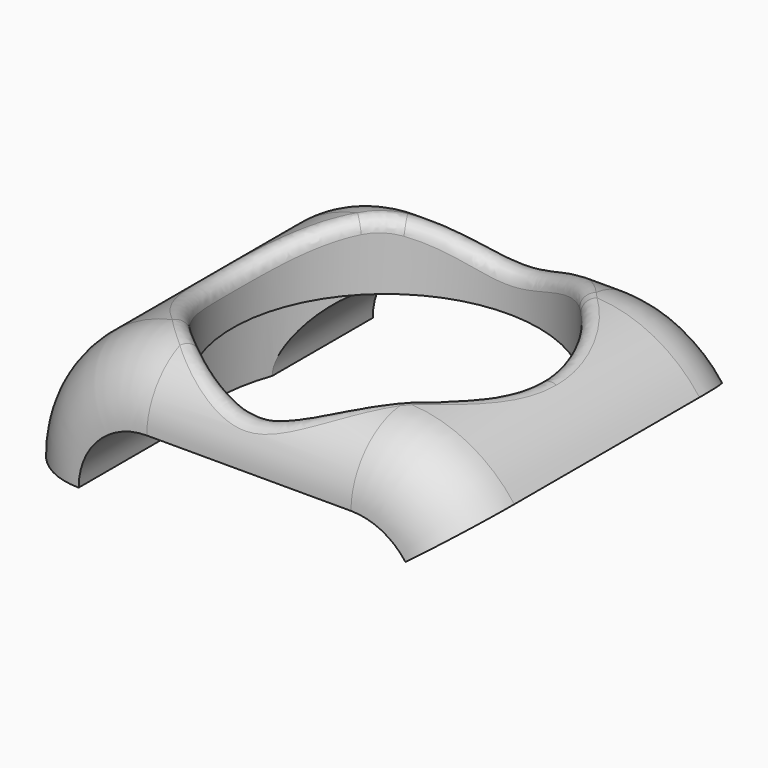
from build123d import *

# Parameters (mm, degrees)
PAD005_DEPTH    = 13.5
FILLET032_R     = 10
FILLET033_R     = 5
SKETCH032_R     = 11.25
POCKET012_DEPTH = 35.001
POCKET013_DEPTH = 24
SKETCH034_W     = 1.7
SKETCH034_H     = 3
POCKET014_DEPTH = 16
SKETCH035_W     = 9.1
SKETCH035_H     = 3.39
POCKET015_DEPTH = 1
FILLET034_R     = 1
FILLET035_R     = 1
FILLET036_R     = 1
FILLET037_R     = 0.5
FILLET038_R     = 0.5
FILLET039_R     = 0.25
FILLET040_R     = 0.5
FILLET041_R     = 0.13
FILLET042_R     = 10
FILLET043_R     = 1
FILLET044_R     = 0.25
FILLET045_R     = 0.5
FILLET046_R     = 0.5
FILLET047_R     = 0.9
POCKET016_DEPTH = 0.5
POCKET018_DEPTH = 27.001
POCKET019_DEPTH = 27.001
SKETCH041_R     = 12.5
POCKET021_DEPTH = 5


with BuildPart() as part:
    # Sketch031 → Pad005 (new body, symmetric)
    with BuildSketch(Plane.XZ):
        Polygon((0, 75), (30, 75), (45, 55), (37.727273, 15), (0, 15), align=None)
    extrude(amount=PAD005_DEPTH, both=True)

    # Fillet032
    fillet032_edges = [part.edges().sort_by_distance(p)[0] for p in [
        (30, 0, 75),
        (45, 0, 55),
        (37.727273, 0, 15),
        (0, 0, 75),
        (0, 0, 15),
    ]]
    fillet(fillet032_edges, radius=FILLET032_R)

    # Fillet033
    fillet033_edges = [part.edges().sort_by_distance(p)[0] for p in [
        (37.69012, -13.5, 64.746507),
        (37.69012, 13.5, 64.746507),
    ]]
    fillet(fillet033_edges, radius=FILLET033_R)

    # Sketch032 (on Face30 of Fillet033) → Pocket012 (cut, through all)
    with BuildSketch(Plane(origin=(0, 0, 40), x_dir=(1, 0, 0), z_dir=(0, 0, -1))):
        with Locations((16.75, 0)):
            Circle(SKETCH032_R)
    extrude(amount=-POCKET012_DEPTH, mode=Mode.SUBTRACT)

    # Sketch033 (on Face11 of Pocket012) → Pocket013 (cut)
    with BuildSketch(Plane(origin=(0, 0, 40), x_dir=(-1, 0, 0), z_dir=(0, 0, 1))):
        Polygon((-7.65, 5.5), (-7.65, 1.3), (-11.75, 1.3), (-11.75, -2.5), (-21.75, -2.5), (-21.75, 1.3), (-25.85, 1.3), (-25.85, 5.5), (-20.85, 3.5), (-12.65, 3.5), align=None)
    extrude(amount=-POCKET013_DEPTH, mode=Mode.SUBTRACT)

    # Sketch034 (on Face11 of Pocket013) → Pocket014 (cut)
    with BuildSketch(Plane(origin=(0, 0, 40), x_dir=(-1, 0, 0), z_dir=(0, 0, 1))):
        with Locations((-22.6, -0.2)):
            Rectangle(SKETCH034_W, SKETCH034_H)
        with Locations((-10.9, -0.2)):
            Rectangle(SKETCH034_W, SKETCH034_H)
    extrude(amount=-POCKET014_DEPTH, mode=Mode.SUBTRACT)

    # Sketch035 (on Face43 of Pocket014) → Pocket015 (cut)
    with BuildSketch(Plane(origin=(0, 0, 15), x_dir=(1, 0, 0), z_dir=(0, 0, -1))):
        with Locations((16.75, -0.245)):
            Rectangle(SKETCH035_W, SKETCH035_H)
    extrude(amount=-POCKET015_DEPTH, mode=Mode.SUBTRACT)

    # Fillet034
    fillet034_edges = [part.edges().sort_by_distance(p)[0] for p in [
        (12.2, 1.94, 15.5),
        (21.3, 1.94, 15.5),
    ]]
    fillet(fillet034_edges, radius=FILLET034_R)

    # Fillet035
    fillet035_edges = [part.edges().sort_by_distance(p)[0] for p in [
        (12.2, -1.45, 15.5),
        (21.3, -1.45, 15.5),
    ]]
    fillet(fillet035_edges, radius=FILLET035_R)

    # Fillet036
    fillet036_edges = [part.edges().sort_by_distance(p)[0] for p in [
        (21.75, -1.3, 20),
        (11.75, -1.3, 20),
    ]]
    fillet(fillet036_edges, radius=FILLET036_R)

    # Fillet037
    fillet037_edges = [part.edges().sort_by_distance(p)[0] for p in [
        (21.75, 2.5, 28),
        (11.75, 2.5, 28),
    ]]
    fillet(fillet037_edges, radius=FILLET037_R)

    # Fillet038
    fillet038_edges = [part.edges().sort_by_distance(p)[0] for p in [
        (10.05, 1.7, 32),
        (23.45, 1.7, 32),
    ]]
    fillet(fillet038_edges, radius=FILLET038_R)

    # Fillet039
    fillet039_edges = [part.edges().sort_by_distance(p)[0] for p in [
        (23.303553, 1.553553, 24),
        (10.196447, 1.553553, 24),
    ]]
    fillet(fillet039_edges, radius=FILLET039_R)

    # Fillet040
    fillet040_edges = [part.edges().sort_by_distance(p)[0] for p in [
        (22.042893, -1.007107, 24),
        (11.457107, -1.007107, 24),
    ]]
    fillet(fillet040_edges, radius=FILLET040_R)

    # Fillet041
    fillet041_edges = [part.edges().sort_by_distance(p)[0] for p in [
        (7.65, -1.3, 28),
        (25.85, -1.3, 28),
    ]]
    fillet(fillet041_edges, radius=FILLET041_R)

    # Fillet042
    fillet042_edges = [part.edges().sort_by_distance(p)[0] for p in [
        (12.65, -3.5, 28),
        (20.85, -3.5, 28),
    ]]
    fillet(fillet042_edges, radius=FILLET042_R)

    # Fillet043
    fillet043_edges = [part.edges().sort_by_distance(p)[0] for p in [
        (25.85, -5.5, 28),
        (7.65, -5.5, 28),
    ]]
    fillet(fillet043_edges, radius=FILLET043_R)

    # Fillet044
    fillet044_edges = [part.edges().sort_by_distance(p)[0] for p in [
        (16.75, 2.5, 16),
    ]]
    fillet(fillet044_edges, radius=FILLET044_R)

    # Fillet045
    fillet045_edges = [part.edges().sort_by_distance(p)[0] for p in [
        (16.75, 2.5, 40),
    ]]
    fillet(fillet045_edges, radius=FILLET045_R)

    # Fillet046
    fillet046_edges = [part.edges().sort_by_distance(p)[0] for p in [
        (5.5, 0, 40),
    ]]
    fillet(fillet046_edges, radius=FILLET046_R)

    # Fillet047
    fillet047_edges = [part.edges().sort_by_distance(p)[0] for p in [
        (5.5, 0, 73.930286),
    ]]
    fillet(fillet047_edges, radius=FILLET047_R)

    # Sketch036 (on Face127 of Fillet047) → Pocket016 (cut)
    with BuildSketch(Plane(origin=(0, 0, 15), x_dir=(1, 0, 0), z_dir=(0, 0, -1))):
        with BuildLine():
            Line((12.2, -2.94), (21.3, -2.94))
            ThreePointArc((21.3, -2.94), (22.007107, -2.647107), (22.3, -1.94))
            Line((22.3, -1.94), (22.3, 1.45))
            ThreePointArc((22.3, 1.45), (22.007107, 2.157107), (21.3, 2.45))
            Line((21.3, 2.45), (12.2, 2.45))
            ThreePointArc((12.2, 2.45), (11.492893, 2.157107), (11.2, 1.45))
            Line((11.2, 1.45), (11.2, -1.94))
            ThreePointArc((11.2, -1.94), (11.492893, -2.647107), (12.2, -2.94))
        make_face()
    extrude(amount=-POCKET016_DEPTH, mode=Mode.SUBTRACT)

    # Sketch038 (on Face47 of Pocket016) → Pocket018 (cut, through all)
    with BuildSketch(Plane.XZ.offset(13.5)):
        Polygon((33, 71), (29, 68), (5, 65), (0, 65), (0, 11), (48, 11), (48, 71), align=None)
    extrude(amount=-POCKET018_DEPTH, mode=Mode.SUBTRACT)

    # Pocket018 Face12 → Pocket019 (cut, through all)
    with BuildSketch(Plane(origin=(15.527865, -13.5, 68.050135), x_dir=(-1, 0, 0), z_dir=(0, -1, 0))):
        with BuildLine():
            ThreePointArc((-13.472135, 0.050135), (-11.708203, -1.422001), (-9.472135, -1.949865))
            Line((-9.472135, -1.949865), (5.527865, -1.949865))
            ThreePointArc((5.527865, -1.949865), (9.063399, -0.485399), (10.527865, 3.050135))
            Line((10.527865, 3.050135), (-13.472135, 0.050135))
        make_face()
    extrude(amount=-POCKET019_DEPTH, mode=Mode.SUBTRACT)

    # Sketch041 (on Face21 of Pocket019) → Pocket021 (cut)
    with BuildSketch(Plane(origin=(0, 0, 65), x_dir=(1, 0, 0), z_dir=(0, 0, -1))):
        with Locations((16.75, 0)):
            Circle(SKETCH041_R)
    extrude(amount=-POCKET021_DEPTH, mode=Mode.SUBTRACT)


solid = part.part
